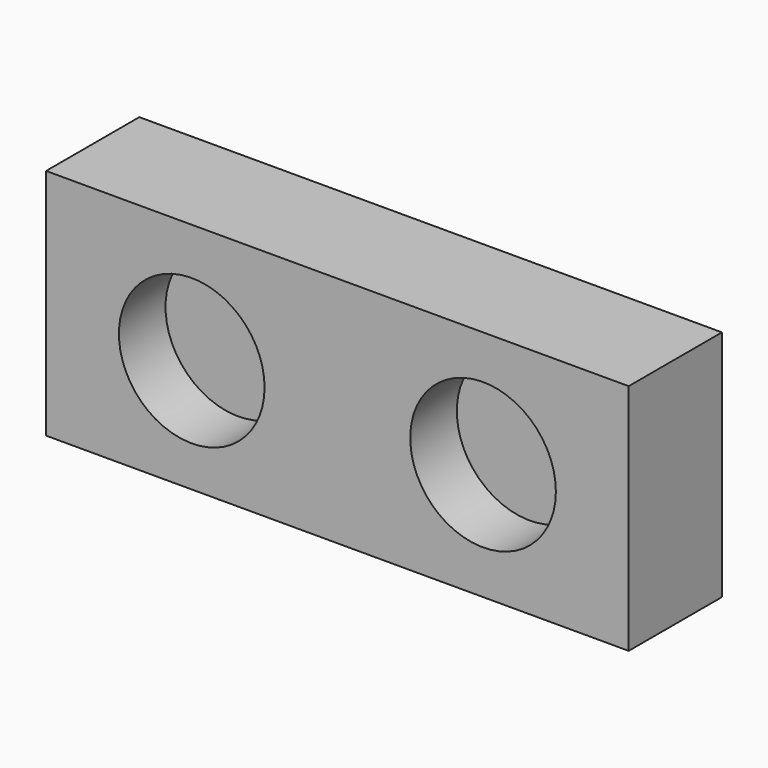
from build123d import *

# Parameters (mm, degrees)
F0_W     = 200
F0_H     = 80
F1_DEPTH = 40
F2_R     = 25
F3_DEPTH = 20


with BuildPart() as f1:
    # F0 (on Front) → F1 (new body)
    with BuildSketch(Plane.XZ):
        Rectangle(F0_W, F0_H)
    extrude(amount=F1_DEPTH)

    # F2 (on face) → F3 (cut, symmetric)
    with BuildSketch(Plane.XZ.offset(40)):
        with Locations((50, 0)):
            Circle(F2_R)
        with Locations((-50, -1.0773862813)):
            Circle(F2_R)
    extrude(amount=F3_DEPTH, both=True, mode=Mode.SUBTRACT)


solid = f1.part
